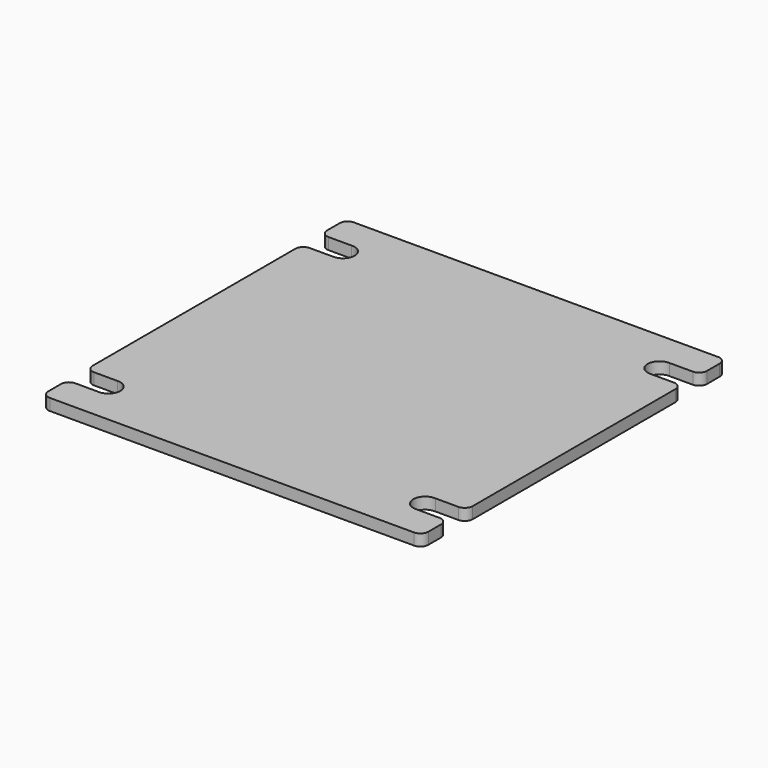
from build123d import *

# Parameters (mm, degrees)
F1_DEPTH = 9.271
F2_R     = 6.35


with BuildPart() as f1:
    # F0 (on Top) → F1 (new body)
    with BuildSketch(Plane.XY):
        with BuildLine():
            Line((-152.4, -152.4), (0, -152.4))
            Line((0, -152.4), (152.4, -152.4))
            Line((152.4, -152.4), (152.4, -126.969507))
            Line((152.4, -126.969507), (127.761554, -126.969507))
            ThreePointArc((127.761554, -126.969507), (117.475854, -117.602548), (127.507025, -107.963504))
            Line((127.507025, -107.963504), (152.4, -107.963504))
            Line((152.4, -107.963504), (152.4, 107.980493))
            Line((152.4, 107.980493), (127.761554, 107.980493))
            ThreePointArc((127.761554, 107.980493), (117.475854, 117.347452), (127.507025, 126.986496))
            Line((127.507025, 126.986496), (152.4, 126.986496))
            Line((152.4, 126.986496), (152.4, 152.4))
            Line((152.4, 152.4), (0, 152.4))
            Line((0, 152.4), (-152.4, 152.4))
            Line((-152.4, 152.4), (-152.4, 126.986496))
            Line((-152.4, 126.986496), (-127.507025, 126.986496))
            ThreePointArc((-127.507025, 126.986496), (-117.475854, 117.347452), (-127.761554, 107.980493))
            Line((-127.761554, 107.980493), (-152.4, 107.980493))
            Line((-152.4, 107.980493), (-152.4, -107.963504))
            Line((-152.4, -107.963504), (-127.507025, -107.963504))
            ThreePointArc((-127.507025, -107.963504), (-117.475854, -117.602548), (-127.761554, -126.969507))
            Line((-127.761554, -126.969507), (-152.4, -126.969507))
            Line((-152.4, -126.969507), (-152.4, -152.4))
        make_face()
    extrude(amount=F1_DEPTH)

    # F2
    f2_edges = [f1.edges().sort_by_distance(p)[0] for p in [
        (-152.4, 152.4, 4.6355),
        (152.4, 152.4, 4.6355),
        (152.4, -152.4, 4.6355),
        (-152.4, -152.4, 4.6355),
        (152.4, -126.969507, 4.6355),
        (152.4, -107.963504, 4.6355),
        (152.4, 107.980493, 4.6355),
        (152.4, 126.986496, 4.6355),
        (-152.4, -107.963504, 4.6355),
        (-152.4, 126.986496, 4.6355),
        (-152.4, -126.969507, 4.6355),
        (-152.4, 107.980493, 4.6355),
    ]]
    fillet(f2_edges, radius=F2_R)


solid = f1.part
